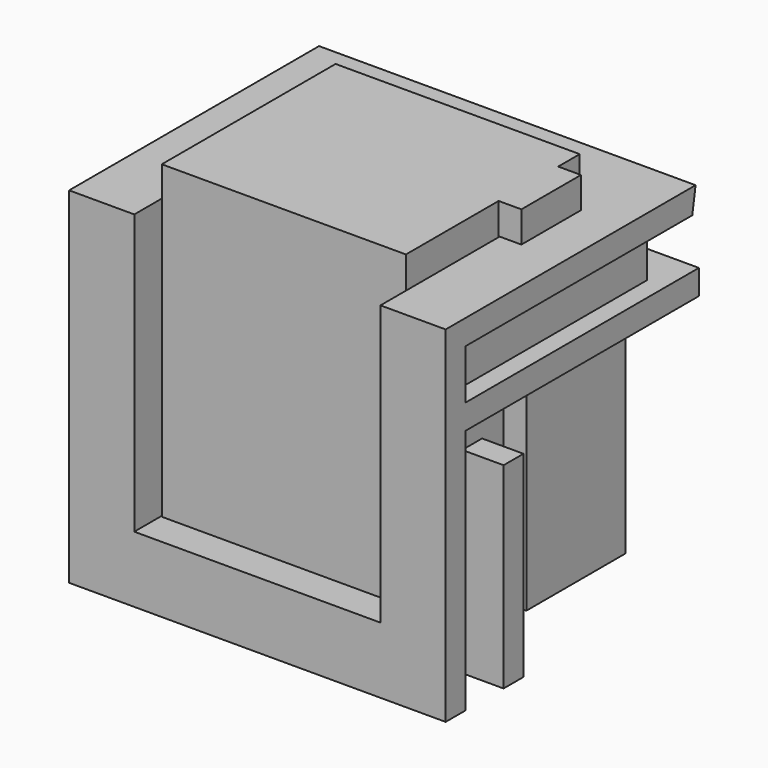
from build123d import *

# Parameters (mm, degrees)
PAD_DEPTH       = 15
SKETCH001_R     = 0.6
PAD001_DEPTH    = 5
SKETCH002_R     = 0.6
PAD002_DEPTH    = 5
PAD003_DEPTH    = 1.2
PAD004_DEPTH    = 13.5
SKETCH005_W     = 1.2
SKETCH005_H     = 14.7
PAD005_DEPTH    = 2
SKETCH006_W     = 1.2
SKETCH006_H     = 14.7
PAD006_DEPTH    = 2
PAD007_DEPTH    = 1.2
SKETCH008_W     = 2
SKETCH008_H     = 12.1
PAD008_DEPTH    = 1.2
SKETCH009_W     = 18.2
SKETCH009_H     = 1.2
PAD009_DEPTH    = 2
SKETCH010_W     = 18.2
SKETCH010_H     = 1.2
PAD010_DEPTH    = 2
SKETCH011_W     = 6
SKETCH011_H     = 1.2
PAD011_DEPTH    = 0.1
SKETCH012_W     = 1.2
SKETCH012_H     = 7.5
PAD012_DEPTH    = 2
SKETCH013_W     = 1.2
SKETCH013_H     = 7.5
PAD013_DEPTH    = 2
SKETCH014_W     = 18.2
SKETCH014_H     = 1.2
PAD014_DEPTH    = 2
SKETCH015_W     = 12.1
SKETCH015_H     = 1.2
PAD015_DEPTH    = 1.5
SKETCH016_W     = 4.8
SKETCH016_H     = 1.2
PAD016_DEPTH    = 2
SKETCH017_W     = 1.3
SKETCH017_H     = 1.2
PAD017_DEPTH    = 2
SKETCH018_W     = 6
SKETCH018_H     = 1.2
PAD018_DEPTH    = 0.9
SKETCH019_W     = 17.7
SKETCH019_H     = 1.2
PAD019_DEPTH    = 2
SKETCH020_R     = 0.6
POCKET_DEPTH    = 5
SKETCH021_R     = 0.6
POCKET001_DEPTH = 5
SKETCH022_W     = 4.8
SKETCH022_H     = 2.4
PAD020_DEPTH    = 1.1
SKETCH023_W     = 1.3
SKETCH023_H     = 2.4
PAD021_DEPTH    = 1.1
POCKET002_DEPTH = 18.201
SKETCH025_W     = 0.05
SKETCH025_H     = 12.1
POCKET003_DEPTH = 13.5
SKETCH026_W     = 0.05
SKETCH026_H     = 12.1
POCKET004_DEPTH = 13.5
SKETCH027_R     = 0.7
POCKET005_DEPTH = 5
SKETCH028_R     = 0.7
POCKET006_DEPTH = 5


with BuildPart() as obj1:
    # Sketch → Pad (new body)
    with BuildSketch(Plane.XY):
        Polygon((-5.9, 0), (5.9, 0), (5.9, -1.3), (7, -1.3), (7, -4.9), (5.9, -4.9), (5.9, -10.5), (-5.9, -10.5), align=None)
    extrude(amount=PAD_DEPTH)

    # Sketch001 → Pad001 (new body)
    with BuildSketch(Plane(origin=(0, 0, 0), x_dir=(1, 0, 0), z_dir=(0, 0, -1))):
        with Locations((2.55, 3.45)):
            Circle(SKETCH001_R)
    extrude(amount=PAD001_DEPTH)

    # Sketch002 → Pad002 (new body)
    with BuildSketch(Plane(origin=(0, 0, 0), x_dir=(1, 0, 0), z_dir=(0, 0, -1))):
        with Locations((-3.25, 3.45)):
            Circle(SKETCH002_R)
    extrude(amount=PAD002_DEPTH)


with BuildPart() as pocket006:
    # Sketch003 → Pad003 (new body)
    with BuildSketch(Plane(origin=(0, 0, 0), x_dir=(1, 0, 0), z_dir=(0, 0, -1))):
        Polygon((-7.1, -1.2), (-7.1, 12.1), (7.1, 12.1), (7.1, 6.1), (8.1, 6.1), (8.1, 0.1), (7.1, 0.1), (7.1, -1.2), align=None)
    extrude(amount=PAD003_DEPTH)

    # Sketch004 → Pad004 (new body)
    with BuildSketch(Plane.XY):
        Polygon((-7.1, -12.1), (-7.1, 1.2), (7.1, 1.2), (7.1, -0.1), (8.2, -0.1), (8.2, -6.1), (7.1, -6.1), (7.1, -12.1), (5.9, -12.1), (5.9, -4.9), (7, -4.9), (7, -1.3), (5.9, -1.3), (5.9, 0), (-5.9, 0), (-5.9, -12.1), align=None)
    extrude(amount=PAD004_DEPTH)

    # Sketch005 → Pad005 (new body)
    with BuildSketch(Plane(origin=(7.1, 0, 0), x_dir=(0, -1, 0), z_dir=(1, 0, 0))):
        with Locations((11.5, -6.15)):
            Rectangle(SKETCH005_W, SKETCH005_H)
    extrude(amount=PAD005_DEPTH)

    # Sketch006 → Pad006 (new body)
    with BuildSketch(Plane(origin=(-7.1, 0, 0), x_dir=(0, 1, 0), z_dir=(-1, 0, 0))):
        with Locations((-11.5, -6.15)):
            Rectangle(SKETCH006_W, SKETCH006_H)
    extrude(amount=PAD006_DEPTH)

    # Sketch007 → Pad007 (new body)
    with BuildSketch(Plane.XY.offset(13.5)):
        Polygon((7.1, 1.2), (7.1, -0.1), (8.2, -0.1), (8.2, -6.1), (7.1, -6.1), (7.1, -10.9), (9.1, -10.9), (9.1, 1.2), align=None)
    extrude(amount=-PAD007_DEPTH)

    # Sketch008 → Pad008 (new body)
    with BuildSketch(Plane.XY.offset(13.5)):
        with Locations((-8.1, -4.85)):
            Rectangle(SKETCH008_W, SKETCH008_H)
    extrude(amount=-PAD008_DEPTH)

    # Sketch009 → Pad009 (new body)
    with BuildSketch(Plane(origin=(0, 1.2, 0), x_dir=(1, 0, 0), z_dir=(0, 1, 0))):
        with Locations((0, -12.9)):
            Rectangle(SKETCH009_W, SKETCH009_H)
    extrude(amount=PAD009_DEPTH)

    # Sketch010 → Pad010 (new body)
    with BuildSketch(Plane(origin=(0, 0, -1.2), x_dir=(1, 0, 0), z_dir=(0, 0, -1))):
        with Locations((0, 11.5)):
            Rectangle(SKETCH010_W, SKETCH010_H)
    extrude(amount=PAD010_DEPTH)

    # Sketch011 → Pad011 (new body)
    with BuildSketch(Plane(origin=(8.1, 0, 0), x_dir=(0, -1, 0), z_dir=(1, 0, 0))):
        with Locations((3.1, 0.6)):
            Rectangle(SKETCH011_W, SKETCH011_H)
    extrude(amount=PAD011_DEPTH)

    # Sketch012 → Pad012 (new body)
    with BuildSketch(Plane(origin=(7.1, 0, 0), x_dir=(0, -1, 0), z_dir=(1, 0, 0))):
        with Locations((8, -2.55)):
            Rectangle(SKETCH012_W, SKETCH012_H)
    extrude(amount=PAD012_DEPTH)

    # Sketch013 → Pad013 (new body)
    with BuildSketch(Plane(origin=(-7.1, 0, 0), x_dir=(0, 1, 0), z_dir=(-1, 0, 0))):
        with Locations((-8, -2.55)):
            Rectangle(SKETCH013_W, SKETCH013_H)
    extrude(amount=PAD013_DEPTH)

    # Sketch014 → Pad014 (new body)
    with BuildSketch(Plane(origin=(0, 0, -1.2), x_dir=(1, 0, 0), z_dir=(0, 0, -1))):
        with Locations((0, 8)):
            Rectangle(SKETCH014_W, SKETCH014_H)
    extrude(amount=PAD014_DEPTH)

    # Sketch015 → Pad015 (new body)
    with BuildSketch(Plane(origin=(-7.1, 0, 0), x_dir=(0, 1, 0), z_dir=(-1, 0, 0))):
        with Locations((-4.85, -9.3)):
            Rectangle(SKETCH015_W, SKETCH015_H)
    extrude(amount=PAD015_DEPTH)

    # Sketch016 → Pad016 (new body)
    with BuildSketch(Plane(origin=(7.1, 0, 0), x_dir=(0, -1, 0), z_dir=(1, 0, 0))):
        with Locations((8.5, -9.3)):
            Rectangle(SKETCH016_W, SKETCH016_H)
    extrude(amount=PAD016_DEPTH)

    # Sketch017 → Pad017 (new body)
    with BuildSketch(Plane(origin=(7.1, 0, 0), x_dir=(0, -1, 0), z_dir=(1, 0, 0))):
        with Locations((-0.55, -9.3)):
            Rectangle(SKETCH017_W, SKETCH017_H)
    extrude(amount=PAD017_DEPTH)

    # Sketch018 → Pad018 (new body)
    with BuildSketch(Plane(origin=(8.2, 0, 0), x_dir=(0, -1, 0), z_dir=(1, 0, 0))):
        with Locations((3.1, -9.3)):
            Rectangle(SKETCH018_W, SKETCH018_H)
    extrude(amount=PAD018_DEPTH)

    # Sketch019 → Pad019 (new body)
    with BuildSketch(Plane(origin=(0, 1.2, 0), x_dir=(1, 0, 0), z_dir=(0, 1, 0))):
        with Locations((0.25, -9.3)):
            Rectangle(SKETCH019_W, SKETCH019_H)
    extrude(amount=PAD019_DEPTH)

    # Sketch020 → Pocket (cut)
    with BuildSketch(Plane(origin=(0, 0, -1.2), x_dir=(1, 0, 0), z_dir=(0, 0, -1))):
        with Locations((-3.25, 3.45)):
            Circle(SKETCH020_R)
    extrude(amount=-POCKET_DEPTH, mode=Mode.SUBTRACT)

    # Sketch021 → Pocket001 (cut)
    with BuildSketch(Plane(origin=(0, 0, -1.2), x_dir=(1, 0, 0), z_dir=(0, 0, -1))):
        with Locations((2.55, 3.45)):
            Circle(SKETCH021_R)
    extrude(amount=-POCKET001_DEPTH, mode=Mode.SUBTRACT)

    # Sketch022 → Pad020 (new body)
    with BuildSketch(Plane(origin=(7.1, 0, 0), x_dir=(0, -1, 0), z_dir=(1, 0, 0))):
        with Locations((8.5, -11.1)):
            Rectangle(SKETCH022_W, SKETCH022_H)
    extrude(amount=PAD020_DEPTH)

    # Sketch023 → Pad021 (new body)
    with BuildSketch(Plane(origin=(7.1, 0, 0), x_dir=(0, -1, 0), z_dir=(1, 0, 0))):
        with Locations((-0.55, -11.1)):
            Rectangle(SKETCH023_W, SKETCH023_H)
    extrude(amount=PAD021_DEPTH)

    # Sketch024 → Pocket002 (cut, through all)
    with BuildSketch(Plane(origin=(9.1, 0, 0), x_dir=(0, -1, 0), z_dir=(1, 0, 0))):
        Polygon((-3.2, -13.5), (-3, -13.5), (-2.8, -12.3), (-3.2, -12.3), align=None)
    extrude(amount=-POCKET002_DEPTH, mode=Mode.SUBTRACT)

    # Sketch025 → Pocket003 (cut)
    with BuildSketch(Plane.XY.offset(13.5)):
        with Locations((5.925, -6.05)):
            Rectangle(SKETCH025_W, SKETCH025_H)
    extrude(amount=-POCKET003_DEPTH, mode=Mode.SUBTRACT)

    # Sketch026 → Pocket004 (cut)
    with BuildSketch(Plane.XY.offset(13.5)):
        with Locations((-5.925, -6.05)):
            Rectangle(SKETCH026_W, SKETCH026_H)
    extrude(amount=-POCKET004_DEPTH, mode=Mode.SUBTRACT)

    # Sketch027 → Pocket005 (cut)
    with BuildSketch(Plane.XY):
        with Locations((2.55, -3.45)):
            Circle(SKETCH027_R)
    extrude(amount=-POCKET005_DEPTH, mode=Mode.SUBTRACT)

    # Sketch028 → Pocket006 (cut)
    with BuildSketch(Plane.XY):
        with Locations((-3.25, -3.45)):
            Circle(SKETCH028_R)
    extrude(amount=-POCKET006_DEPTH, mode=Mode.SUBTRACT)


solid = Compound([obj1.part, pocket006.part])
